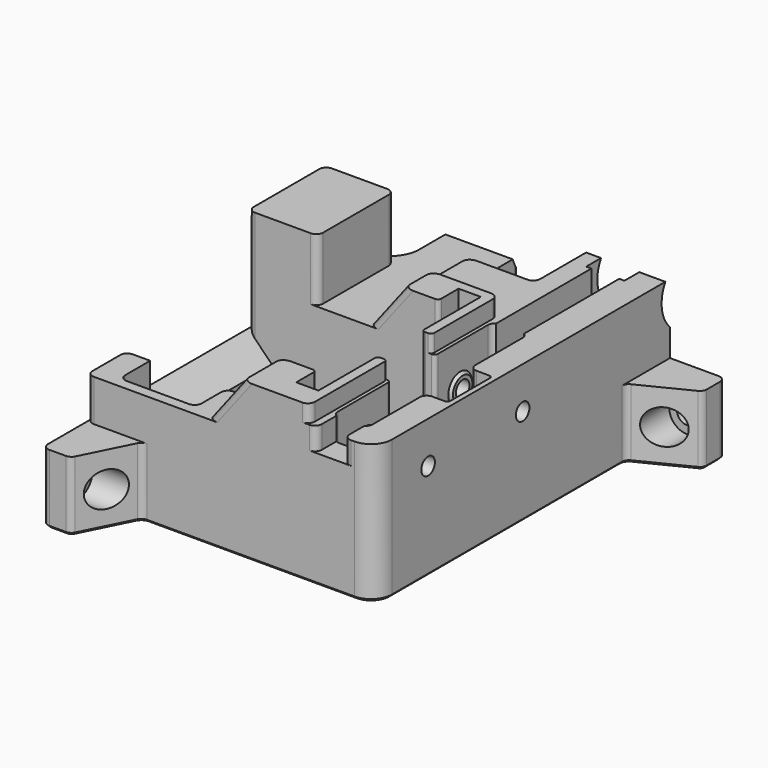
from build123d import *

# Parameters (mm, degrees)
PAD049_DEPTH           = 50
SKETCH170_R            = 2.75
SKETCH170_W            = 20
SKETCH170_H            = 20
POCKET097_DEPTH        = 0.001
POCKET097_DEPTH_BACK   = 122.001
SKETCH375_W            = 28
SKETCH375_H            = 128
SKETCH375_W_2          = 20
SKETCH375_H_2          = 27.6
POCKET235_DEPTH        = 18.001
SKETCH171_R            = 2.75
SKETCH171_W            = 16
SKETCH171_H            = 12
POCKET236_DEPTH        = 0.001
POCKET236_DEPTH_BACK   = 99.001
POCKET237_DEPTH        = 5.5
SKETCH173_W            = 11
SKETCH173_H            = 11.5
POCKET238_DEPTH        = 4
POCKET239_DEPTH        = 30.001
POCKET240_DEPTH        = 10.001
SKETCH176_R            = 10
POCKET241_DEPTH        = 0.001
POCKET241_DEPTH_BACK   = 99.001
SKETCH177_R            = 2.75
POCKET242_DEPTH        = 41.701
POCKET243_DEPTH        = 8
SKETCH188_W            = 20.2
SKETCH188_H            = 13
POCKET244_DEPTH        = 5
POCKET244_DEPTH_BACK   = 2
POCKET245_DEPTH        = 0.001
POCKET245_DEPTH_BACK   = 50.001
SKETCH187_W            = 6.4
SKETCH187_H            = 58.4
POCKET246_DEPTH        = 25.001
SKETCH189_R            = 1.75
POCKET247_DEPTH        = 34.601
POCKET248_DEPTH        = 15.001
LINEARPATTERN_COUNT    = 2
LINEARPATTERN_PITCH    = 52
POCKET249_DEPTH        = 20.5
POCKET250_DEPTH        = 22
SKETCH197_R            = 5
POCKET252_DEPTH        = 95.001
SKETCH198_R            = 5
POCKET253_DEPTH        = 118.001
LINEARPATTERN001_COUNT = 2
LINEARPATTERN001_PITCH = 34
SKETCH185_R            = 2.45
POCKET255_DEPTH        = 37.001
PAD096_START           = 20.4
PAD096_DEPTH           = 82.6
PAD097_START           = 20.4
PAD097_DEPTH           = 62.6
FILLET_R               = 1.99
FILLET001_R            = 1
CHAMFER_SIZE           = 0.75


with BuildPart() as part:
    # Sketch169 → Pad049 (new body)
    with BuildSketch(Plane.XY):
        with BuildLine():
            Line((97.894427, -8.552786), (84.105573, -15.447214))
            ThreePointArc((84.105573, -15.447214), (83.298698, -16.184606), (83, -17.236068))
            Line((83, -17.236068), (83, -100))
            ThreePointArc((77, -106), (81.242641, -104.242641), (83, -100))
            Line((77, -106), (17.236068, -106))
            ThreePointArc((17.236068, -106), (16.184606, -106.298698), (15.447214, -107.105573))
            Line((15.447214, -107.105573), (8.552786, -120.894427))
            ThreePointArc((6.763932, -122), (7.815394, -121.701302), (8.552786, -120.894427))
            Line((6.763932, -122), (2, -122))
            ThreePointArc((0, -120), (0.585786, -121.414214), (2, -122))
            Line((0, -120), (0, -20.4))
            Line((12, -20.4), (0, -20.4))
            ThreePointArc((12, -20.4), (17.939697, -17.939697), (20.4, -12))
            Line((20.4, 0), (20.4, -12))
            Line((20.4, 0), (97, 0))
            ThreePointArc((99, -2), (98.414214, -0.585786), (97, 0))
            Line((99, -2), (99, -6.763932))
            ThreePointArc((97.894427, -8.552786), (98.701302, -7.815394), (99, -6.763932))
        make_face()
        with BuildLine():
            Line((65, -43), (65, -97))
            ThreePointArc((65, -97), (65.585786, -98.414214), (67, -99))
            Line((67, -99), (73, -99))
            ThreePointArc((73, -99), (74.414214, -98.414214), (75, -97))
            Line((75, -97), (75, -43))
            ThreePointArc((75, -43), (74.414214, -41.585786), (73, -41))
            Line((73, -41), (67, -41))
            ThreePointArc((67, -41), (65.585786, -41.585786), (65, -43))
        make_face(mode=Mode.SUBTRACT)
    extrude(amount=PAD049_DEPTH)

    # Sketch170 → Pocket097 (cut, two sides)
    with BuildSketch(Plane.XZ) as pocket097_sk:
        with Locations((91, 10)):
            Circle(SKETCH170_R)
        with Locations((-10, 10)):
            Rectangle(SKETCH170_W, SKETCH170_H)
        Polygon((0, 32), (-20, 28), (-20, 50), (0, 50), align=None)
        Polygon((20, 32), (35, 32), (45, 45), (83, 45), (83, 20), (99, 20), (99, 50), (20, 50), align=None)
    extrude(amount=-POCKET097_DEPTH, mode=Mode.SUBTRACT)
    extrude(pocket097_sk.sketch, amount=POCKET097_DEPTH_BACK, mode=Mode.SUBTRACT)

    # Sketch375 → Pocket235 (cut, through all)
    with BuildSketch(Plane.XY.offset(32)):
        with Locations((10, -64)):
            Rectangle(SKETCH375_W, SKETCH375_H)
        with Locations((10, -34.2)):
            Rectangle(SKETCH375_W_2, SKETCH375_H_2, mode=Mode.SUBTRACT)
    extrude(amount=POCKET235_DEPTH, mode=Mode.SUBTRACT)

    # Sketch171 → Pocket236 (cut, two sides)
    with BuildSketch(Plane.YZ) as pocket236_sk:
        with Locations((-114, 10)):
            Circle(SKETCH171_R)
        with Locations((-114, 26)):
            Rectangle(SKETCH171_W, SKETCH171_H)
    extrude(amount=-POCKET236_DEPTH, mode=Mode.SUBTRACT)
    extrude(pocket236_sk.sketch, amount=POCKET236_DEPTH_BACK, mode=Mode.SUBTRACT)

    # Sketch172 → Pocket237 (cut, symmetric)
    with BuildSketch(Plane.YZ.offset(70)):
        with BuildLine():
            ThreePointArc((-7, 35), (7, 21), (21, 35))
            Line((21, 45), (21, 35))
            Line((-7, 45), (21, 45))
            Line((-7, 35), (-7, 45))
        make_face()
    extrude(amount=POCKET237_DEPTH, both=True, mode=Mode.SUBTRACT)

    # Sketch173 → Pocket238 (cut, symmetric)
    with BuildSketch(Plane.YZ.offset(70)):
        with Locations((-100.5, 39.25)):
            Rectangle(SKETCH173_W, SKETCH173_H)
        Polygon((0, 24), (0, 45), (-45, 45), (-45, 33), align=None)
    extrude(amount=POCKET238_DEPTH, both=True, mode=Mode.SUBTRACT)

    # Sketch174 → Pocket239 (cut, through all)
    with BuildSketch(Plane.XY.offset(20)):
        with BuildLine():
            Line((58.2, -20.2), (41.8, -20.2))
            ThreePointArc((39.8, -18.2), (40.385786, -19.614214), (41.8, -20.2))
            Line((39.8, -2), (39.8, -18.2))
            ThreePointArc((39.8, -2), (39.214214, -0.585786), (37.8, 0))
            Line((62.2, 0), (37.8, 0))
            ThreePointArc((62.2, 0), (60.785786, -0.585786), (60.2, -2))
            Line((60.2, -18.2), (60.2, -2))
            ThreePointArc((58.2, -20.2), (59.614214, -19.614214), (60.2, -18.2))
        make_face()
    extrude(amount=POCKET239_DEPTH, mode=Mode.SUBTRACT)

    # Sketch175 → Pocket240 (cut, through all)
    with BuildSketch(Plane.XY.offset(40)):
        with BuildLine():
            Line((83, 0), (83, -106))
            Line((62.000011, -106), (83, -106))
            ThreePointArc((62.000011, -106), (63.414218, -105.41421), (64, -104))
            Line((64, -104), (64, -40))
            ThreePointArc((64, -40), (63.414214, -38.585786), (62, -38))
            Line((62, -38), (20, -38))
            Line((20, 0), (20, -38))
            Line((83, 0), (20, 0))
        make_face()
    extrude(amount=POCKET240_DEPTH, mode=Mode.SUBTRACT)

    # Sketch176 → Pocket241 (cut, two sides)
    with BuildSketch(Plane.YZ) as pocket241_sk:
        with Locations((7, 35)):
            Circle(SKETCH176_R)
    extrude(amount=-POCKET241_DEPTH, mode=Mode.SUBTRACT)
    extrude(pocket241_sk.sketch, amount=POCKET241_DEPTH_BACK, mode=Mode.SUBTRACT)

    # Sketch177 → Pocket242 (cut, through all)
    with BuildSketch(Plane.XY.offset(8.3)):
        with Locations((50, -10)):
            Circle(SKETCH177_R)
    extrude(amount=POCKET242_DEPTH, mode=Mode.SUBTRACT)

    # Sketch178 → Pocket243 (cut)
    with BuildSketch(Plane.XY):
        Polygon((52.309401, -14), (54.618802, -10), (52.309401, -6), (47.690599, -6), (45.381198, -10), (47.690599, -14), align=None)
    extrude(amount=POCKET243_DEPTH, mode=Mode.SUBTRACT)

    # Sketch188 → Pocket244 (cut, two sides)
    with BuildSketch(Plane.YZ.offset(40)) as pocket244_sk:
        with Locations((-10.1, 38.5)):
            Rectangle(SKETCH188_W, SKETCH188_H)
    extrude(amount=-POCKET244_DEPTH, mode=Mode.SUBTRACT)
    extrude(pocket244_sk.sketch, amount=POCKET244_DEPTH_BACK, mode=Mode.SUBTRACT)

    # Sketch186 → Pocket245 (cut, two sides)
    with BuildSketch(Plane.XY) as pocket245_sk:
        with BuildLine():
            Line((7, -48), (55.2, -48))
            Line((55.2, -48), (55.2, -51.8))
            Line((55.2, -51.8), (57.8, -51.8))
            Line((57.8, -51.8), (57.8, -48.8))
            Line((57.8, -48.8), (61.2, -48.8))
            Line((61.2, -48.8), (61.2, -91.2))
            Line((61.2, -91.2), (57.8, -91.2))
            Line((57.8, -91.2), (57.8, -88.2))
            Line((57.8, -88.2), (55.2, -88.2))
            Line((55.2, -88.2), (55.2, -92))
            Line((55.2, -92), (31, -92))
            ThreePointArc((31, -92), (29.585786, -92.585786), (29, -94))
            Line((29, -94), (29, -101))
            ThreePointArc((27, -103), (28.414214, -102.414214), (29, -101))
            Line((27, -103), (9, -103))
            ThreePointArc((7, -101), (7.585786, -102.414214), (9, -103))
            Line((7, -101), (7, -92))
            Line((7, -92), (7, -48))
        make_face()
    extrude(amount=-POCKET245_DEPTH, mode=Mode.SUBTRACT)
    extrude(pocket245_sk.sketch, amount=POCKET245_DEPTH_BACK, mode=Mode.SUBTRACT)

    # Sketch187 → Pocket246 (cut, through all)
    with BuildSketch(Plane.XY.offset(25)):
        with Locations((58, -70)):
            Rectangle(SKETCH187_W, SKETCH187_H)
    extrude(amount=POCKET246_DEPTH, mode=Mode.SUBTRACT)

    # Sketch189 → Pocket247 (cut, through all)
    with BuildSketch(Plane.XY.offset(15.4)):
        with Locations((58, -44)):
            Circle(SKETCH189_R)
        with Locations((58, -96)):
            Circle(SKETCH189_R)
    extrude(amount=POCKET247_DEPTH, mode=Mode.SUBTRACT)

    # Sketch190 → Pocket248 (cut, through all)
    with BuildSketch(Plane.XY.offset(15)):
        with BuildLine():
            ThreePointArc((57.047372, -41.35), (56.364359, -41.166987), (56.181347, -41.85))
            Line((55.228719, -43.5), (56.181347, -41.85))
            ThreePointArc((55.228719, -43.5), (54.728719, -44), (55.228719, -44.5))
            Line((56.181347, -46.15), (55.228719, -44.5))
            ThreePointArc((56.181347, -46.15), (56.364359, -46.833013), (57.047372, -46.65))
            Line((58.952628, -46.65), (57.047372, -46.65))
            ThreePointArc((58.952628, -46.65), (59.635641, -46.833013), (59.818653, -46.15))
            Line((60.771281, -44.5), (59.818653, -46.15))
            ThreePointArc((60.771281, -44.5), (61.271281, -44), (60.771281, -43.5))
            Line((59.818653, -41.85), (60.771281, -43.5))
            ThreePointArc((59.818653, -41.85), (59.635641, -41.166987), (58.952628, -41.35))
            Line((57.047372, -41.35), (58.952628, -41.35))
        make_face()
    pocket248 = extrude(amount=-POCKET248_DEPTH, mode=Mode.SUBTRACT)

    # LinearPattern: Pocket248 ×2
    with Locations(*[(0, -i * LINEARPATTERN_PITCH, 0) for i in range(1, LINEARPATTERN_COUNT)]):
        add(pocket248, mode=Mode.SUBTRACT)

    # Sketch191 → Pocket249 (cut)
    with BuildSketch(Plane.YZ.offset(61)):
        with BuildLine():
            ThreePointArc((-78, 21), (-70, 13), (-62, 21))
            Line((-62, 21), (-62, 45))
            Line((-78, 45), (-62, 45))
            Line((-78, 45), (-78, 21))
        make_face()
    extrude(amount=POCKET249_DEPTH, mode=Mode.SUBTRACT)

    # Sketch195 → Pocket250 (cut, symmetric)
    with BuildSketch(Plane.XZ.offset(70)):
        Polygon((7, 13), (7, 32), (0, 32), (0, 20), align=None)
    extrude(amount=POCKET250_DEPTH, both=True, mode=Mode.SUBTRACT)

    # Sketch197 → Pocket252 (cut, through all)
    with BuildSketch(Plane.YZ.offset(4)):
        with Locations((-114, 10)):
            Circle(SKETCH197_R)
    extrude(amount=POCKET252_DEPTH, mode=Mode.SUBTRACT)

    # Sketch198 → Pocket253 (cut, through all)
    with BuildSketch(Plane.XZ.offset(4)):
        with Locations((91, 10)):
            Circle(SKETCH198_R)
    extrude(amount=POCKET253_DEPTH, mode=Mode.SUBTRACT)

    # Sketch364 → Revolution023 (revolve)
    with BuildSketch(Plane.XY.offset(28)):
        Polygon((75, -48.75), (74.25, -49.5), (74.25, -53), (75, -53), align=None)
        Polygon((65, -48.75), (65.75, -49.5), (65.75, -53), (65, -53), align=None)
    revolution023 = revolve(axis=Axis((74.25, -53, 28), (1, 0, 0)))

    # LinearPattern001: Revolution023 ×2
    with Locations(*[(0, -i * LINEARPATTERN001_PITCH, 0) for i in range(1, LINEARPATTERN001_COUNT)]):
        add(revolution023)

    # Sketch185 → Pocket255 (cut, through all)
    with BuildSketch(Plane.YZ.offset(62)):
        with Locations((-53, 28)):
            Circle(SKETCH185_R)
        with Locations((-87, 28)):
            Circle(SKETCH185_R)
    extrude(amount=POCKET255_DEPTH, mode=Mode.SUBTRACT)

    # Sketch367 → Pad096 (join)
    with BuildSketch(Plane.XZ.offset(PAD096_START)):
        Polygon((0, 14.275736), (0, 5.724264), (-2, 7.724264), (-2, 12.275736), align=None)
    extrude(amount=PAD096_DEPTH)

    # Sketch368 → Pad097 (join)
    with BuildSketch(Plane.YZ.offset(PAD097_START)):
        Polygon((0, 14.275736), (2, 12.275736), (2, 7.724264), (0, 5.724264), align=None)
    extrude(amount=PAD097_DEPTH)

    # Fillet
    fillet_edges = [part.edges().sort_by_distance(p)[0] for p in [
        (0, -20.4, 32.137868),
        (-1, -20.4, 6.724264),
        (-2, -20.4, 10),
        (-1, -20.4, 13.275736),
        (0, -20.4, 2.862132),
        (20.4, 2, 10),
        (20.4, 1, 6.724264),
        (20.4, 0, 2.862132),
        (20.4, 1, 13.275736),
        (20.4, 0, 21.067154),
        (75, -62, 30.5),
        (0, -48, 35),
        (0, -92, 26),
        (0, -106, 26),
        (66, -106, 36.75),
        (74, -106, 36.75),
        (20, -48, 41),
        (20, -20.4, 41),
        (38.076923, -20.2, 36),
        (43.076923, -38, 42.5),
        (40, -48, 38.5),
        (40, -92, 38.5),
        (40, -106, 38.5),
    ]]
    fillet(fillet_edges, radius=FILLET_R)

    # Fillet001
    fillet001_edges = [part.edges().sort_by_distance(p)[0] for p in [
        (61.2, -62, 33),
        (65, -62, 30.5),
        (81.5, -62, 30.5),
        (64, -78, 42.5),
        (64, -62, 42.5),
        (54.8, -92, 35),
        (54.8, -48, 35),
    ]]
    fillet(fillet001_edges, radius=FILLET001_R)

    # Chamfer
    chamfer_edges = [part.edges().sort_by_distance(p)[0] for p in [
        (59.695, 0, 0),
        (46.535898, -12, 0),
        (46.535898, -8, 0),
        (50, -6, 0),
        (53.464102, -8, 0),
        (53.464102, -12, 0),
        (50, -14, 0),
    ]]
    chamfer(chamfer_edges, length=CHAMFER_SIZE)


solid = part.part
